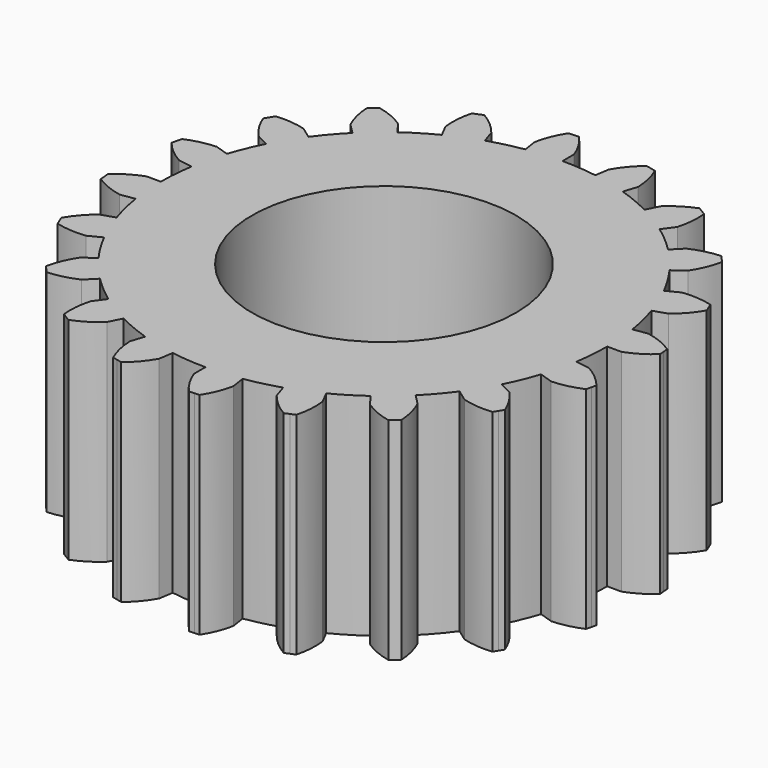
from build123d import *

# Parameters (mm, degrees)
F0_R     = 7.9375
F1_DEPTH = 12.7


with BuildPart() as f1:
    # F0 (on Top) → F1 (new body)
    with BuildSketch(Plane.XY):
        with BuildLine():
            Line((-6.486389, 12.730256), (-6.095212, 11.962527))
            ThreePointArc((-6.095212, 11.962527), (-7.014992, 11.447426), (-7.891522, 10.861748))
            Line((-7.891522, 10.861748), (-8.397982, 11.55883))
            ThreePointArc((-8.397982, 11.55883), (-9.201579, 11.994875), (-10.073691, 12.269327))
            Line((-10.073691, 12.269327), (-10.308045, 12.06917))
            Line((-10.308045, 12.06917), (-10.542399, 11.869013))
            ThreePointArc((-10.542399, 11.869013), (-10.407754, 10.964704), (-10.102788, 10.102788))
            Line((-10.102788, 10.102788), (-9.493515, 9.493515))
            ThreePointArc((-9.493515, 9.493515), (-10.209103, 8.719397), (-10.861748, 7.891522))
            Line((-10.861748, 7.891522), (-11.55883, 8.397982))
            ThreePointArc((-11.55883, 8.397982), (-12.457842, 8.56436), (-13.37208, 8.555881))
            Line((-13.37208, 8.555881), (-13.533112, 8.293101))
            Line((-13.533112, 8.293101), (-13.694143, 8.030321))
            ThreePointArc((-13.694143, 8.030321), (-13.286642, 7.21188), (-12.730256, 6.486389))
            Line((-12.730256, 6.486389), (-11.962527, 6.095212))
            ThreePointArc((-11.962527, 6.095212), (-12.403876, 5.137854), (-12.76875, 4.148818))
            Line((-12.76875, 4.148818), (-13.58822, 4.41508))
            ThreePointArc((-13.58822, 4.41508), (-14.494644, 4.295505), (-15.361516, 4.004927))
            Line((-15.361516, 4.004927), (-15.433463, 3.705247))
            Line((-15.433463, 3.705247), (-15.50541, 3.405566))
            ThreePointArc((-15.50541, 3.405566), (-14.864941, 2.753108), (-14.111597, 2.235057))
            Line((-14.111597, 2.235057), (-13.260564, 2.100267))
            ThreePointArc((-13.260564, 2.100267), (-13.384471, 1.053381), (-13.425858, 0))
            Line((-13.425858, 0), (-14.2875, 0))
            ThreePointArc((-14.2875, 0), (-15.11261, -0.393823), (-15.847261, -0.938058))
            Line((-15.847261, -0.938058), (-15.82308, -1.245303))
            Line((-15.82308, -1.245303), (-15.798899, -1.552549))
            ThreePointArc((-15.798899, -1.552549), (-14.988156, -1.975159), (-14.111597, -2.235057))
            Line((-14.111597, -2.235057), (-13.260564, -2.100267))
            ThreePointArc((-13.260564, -2.100267), (-13.054901, -3.134204), (-12.76875, -4.148818))
            Line((-12.76875, -4.148818), (-13.58822, -4.41508))
            ThreePointArc((-13.58822, -4.41508), (-14.251248, -5.044601), (-14.781765, -5.789219))
            Line((-14.781765, -5.789219), (-14.663823, -6.073955))
            Line((-14.663823, -6.073955), (-14.545882, -6.35869))
            ThreePointArc((-14.545882, -6.35869), (-13.644226, -6.510082), (-12.730256, -6.486389))
            Line((-12.730256, -6.486389), (-11.962527, -6.095212))
            ThreePointArc((-11.962527, -6.095212), (-11.447426, -7.014992), (-10.861748, -7.891522))
            Line((-10.861748, -7.891522), (-11.55883, -8.397982))
            ThreePointArc((-11.55883, -8.397982), (-11.994875, -9.201579), (-12.269327, -10.073691))
            Line((-12.269327, -10.073691), (-12.06917, -10.308045))
            Line((-12.06917, -10.308045), (-11.869013, -10.542399))
            ThreePointArc((-11.869013, -10.542399), (-10.964704, -10.407754), (-10.102788, -10.102788))
            Line((-10.102788, -10.102788), (-9.493515, -9.493515))
            ThreePointArc((-9.493515, -9.493515), (-8.719397, -10.209103), (-7.891522, -10.861748))
            Line((-7.891522, -10.861748), (-8.397982, -11.55883))
            ThreePointArc((-8.397982, -11.55883), (-8.56436, -12.457842), (-8.555881, -13.37208))
            Line((-8.555881, -13.37208), (-8.293101, -13.533112))
            Line((-8.293101, -13.533112), (-8.030321, -13.694143))
            ThreePointArc((-8.030321, -13.694143), (-7.21188, -13.286642), (-6.486389, -12.730256))
            Line((-6.486389, -12.730256), (-6.095212, -11.962527))
            ThreePointArc((-6.095212, -11.962527), (-5.137854, -12.403876), (-4.148818, -12.76875))
            Line((-4.148818, -12.76875), (-4.41508, -13.58822))
            ThreePointArc((-4.41508, -13.58822), (-4.295505, -14.494644), (-4.004927, -15.361516))
            Line((-4.004927, -15.361516), (-3.705247, -15.433463))
            Line((-3.705247, -15.433463), (-3.405566, -15.50541))
            ThreePointArc((-3.405566, -15.50541), (-2.753108, -14.864941), (-2.235057, -14.111597))
            Line((-2.235057, -14.111597), (-2.100267, -13.260564))
            ThreePointArc((-2.100267, -13.260564), (-1.053381, -13.384471), (0, -13.425858))
            Line((0, -13.425858), (0, -14.2875))
            ThreePointArc((0, -14.2875), (0.393823, -15.11261), (0.938058, -15.847261))
            Line((0.938058, -15.847261), (1.245303, -15.82308))
            Line((1.245303, -15.82308), (1.552549, -15.798899))
            ThreePointArc((1.552549, -15.798899), (1.975159, -14.988156), (2.235057, -14.111597))
            Line((2.235057, -14.111597), (2.100267, -13.260564))
            ThreePointArc((2.100267, -13.260564), (3.134204, -13.054901), (4.148818, -12.76875))
            Line((4.148818, -12.76875), (4.41508, -13.58822))
            ThreePointArc((4.41508, -13.58822), (5.044601, -14.251248), (5.789219, -14.781765))
            Line((5.789219, -14.781765), (6.073955, -14.663823))
            Line((6.073955, -14.663823), (6.35869, -14.545882))
            ThreePointArc((6.35869, -14.545882), (6.510082, -13.644226), (6.486389, -12.730256))
            Line((6.486389, -12.730256), (6.095212, -11.962527))
            ThreePointArc((6.095212, -11.962527), (7.014992, -11.447426), (7.891522, -10.861748))
            Line((7.891522, -10.861748), (8.397982, -11.55883))
            ThreePointArc((8.397982, -11.55883), (9.201579, -11.994875), (10.073691, -12.269327))
            Line((10.073691, -12.269327), (10.308045, -12.06917))
            Line((10.308045, -12.06917), (10.542399, -11.869013))
            ThreePointArc((10.542399, -11.869013), (10.407754, -10.964704), (10.102788, -10.102788))
            Line((10.102788, -10.102788), (9.493515, -9.493515))
            ThreePointArc((9.493515, -9.493515), (10.209103, -8.719397), (10.861748, -7.891522))
            Line((10.861748, -7.891522), (11.55883, -8.397982))
            ThreePointArc((11.55883, -8.397982), (12.457842, -8.56436), (13.37208, -8.555881))
            Line((13.37208, -8.555881), (13.533112, -8.293101))
            Line((13.533112, -8.293101), (13.694143, -8.030321))
            ThreePointArc((13.694143, -8.030321), (13.286642, -7.21188), (12.730256, -6.486389))
            Line((12.730256, -6.486389), (11.962527, -6.095212))
            ThreePointArc((11.962527, -6.095212), (12.403876, -5.137854), (12.76875, -4.148818))
            Line((12.76875, -4.148818), (13.58822, -4.41508))
            ThreePointArc((13.58822, -4.41508), (14.494644, -4.295505), (15.361516, -4.004927))
            Line((15.361516, -4.004927), (15.433463, -3.705247))
            Line((15.433463, -3.705247), (15.50541, -3.405566))
            ThreePointArc((15.50541, -3.405566), (14.864941, -2.753108), (14.111597, -2.235057))
            Line((14.111597, -2.235057), (13.260564, -2.100267))
            ThreePointArc((13.260564, -2.100267), (13.384471, -1.053381), (13.425858, 0))
            Line((13.425858, 0), (14.2875, 0))
            ThreePointArc((14.2875, 0), (15.11261, 0.393823), (15.847261, 0.938058))
            Line((15.847261, 0.938058), (15.82308, 1.245303))
            Line((15.82308, 1.245303), (15.798899, 1.552549))
            ThreePointArc((15.798899, 1.552549), (14.988156, 1.975159), (14.111597, 2.235057))
            Line((14.111597, 2.235057), (13.260564, 2.100267))
            ThreePointArc((13.260564, 2.100267), (13.054901, 3.134204), (12.76875, 4.148818))
            Line((12.76875, 4.148818), (13.58822, 4.41508))
            ThreePointArc((13.58822, 4.41508), (14.251248, 5.044601), (14.781765, 5.789219))
            Line((14.781765, 5.789219), (14.663823, 6.073955))
            Line((14.663823, 6.073955), (14.545882, 6.35869))
            ThreePointArc((14.545882, 6.35869), (13.644226, 6.510082), (12.730256, 6.486389))
            Line((12.730256, 6.486389), (11.962527, 6.095212))
            ThreePointArc((11.962527, 6.095212), (11.447426, 7.014992), (10.861748, 7.891522))
            Line((10.861748, 7.891522), (11.55883, 8.397982))
            ThreePointArc((11.55883, 8.397982), (11.994875, 9.201579), (12.269327, 10.073691))
            Line((12.269327, 10.073691), (12.06917, 10.308045))
            Line((12.06917, 10.308045), (11.869013, 10.542399))
            ThreePointArc((11.869013, 10.542399), (10.964704, 10.407754), (10.102788, 10.102788))
            Line((10.102788, 10.102788), (9.493515, 9.493515))
            ThreePointArc((9.493515, 9.493515), (8.719397, 10.209103), (7.891522, 10.861748))
            Line((7.891522, 10.861748), (8.397982, 11.55883))
            ThreePointArc((8.397982, 11.55883), (8.56436, 12.457842), (8.555881, 13.37208))
            Line((8.555881, 13.37208), (8.293101, 13.533112))
            Line((8.293101, 13.533112), (8.030321, 13.694143))
            ThreePointArc((8.030321, 13.694143), (7.21188, 13.286642), (6.486389, 12.730256))
            Line((6.486389, 12.730256), (6.095212, 11.962527))
            ThreePointArc((6.095212, 11.962527), (5.137854, 12.403876), (4.148818, 12.76875))
            Line((4.148818, 12.76875), (4.41508, 13.58822))
            ThreePointArc((4.41508, 13.58822), (4.295505, 14.494644), (4.004927, 15.361516))
            Line((4.004927, 15.361516), (3.705247, 15.433463))
            Line((3.705247, 15.433463), (3.405566, 15.50541))
            ThreePointArc((3.405566, 15.50541), (2.753108, 14.864941), (2.235057, 14.111597))
            Line((2.235057, 14.111597), (2.100267, 13.260564))
            ThreePointArc((2.100267, 13.260564), (1.053381, 13.384471), (0, 13.425858))
            Line((0, 13.425858), (0, 14.2875))
            ThreePointArc((0, 14.2875), (-0.393823, 15.11261), (-0.938058, 15.847261))
            Line((-0.938058, 15.847261), (-1.245303, 15.82308))
            Line((-1.245303, 15.82308), (-1.552549, 15.798899))
            ThreePointArc((-1.552549, 15.798899), (-1.975159, 14.988156), (-2.235057, 14.111597))
            Line((-2.235057, 14.111597), (-2.100267, 13.260564))
            ThreePointArc((-2.100267, 13.260564), (-3.134204, 13.054901), (-4.148818, 12.76875))
            Line((-4.148818, 12.76875), (-4.41508, 13.58822))
            ThreePointArc((-4.41508, 13.58822), (-5.044601, 14.251248), (-5.789219, 14.781765))
            Line((-5.789219, 14.781765), (-6.073955, 14.663823))
            Line((-6.073955, 14.663823), (-6.35869, 14.545882))
            ThreePointArc((-6.35869, 14.545882), (-6.510082, 13.644226), (-6.486389, 12.730256))
        make_face()
        Circle(F0_R, mode=Mode.SUBTRACT)
    extrude(amount=F1_DEPTH)


solid = f1.part
